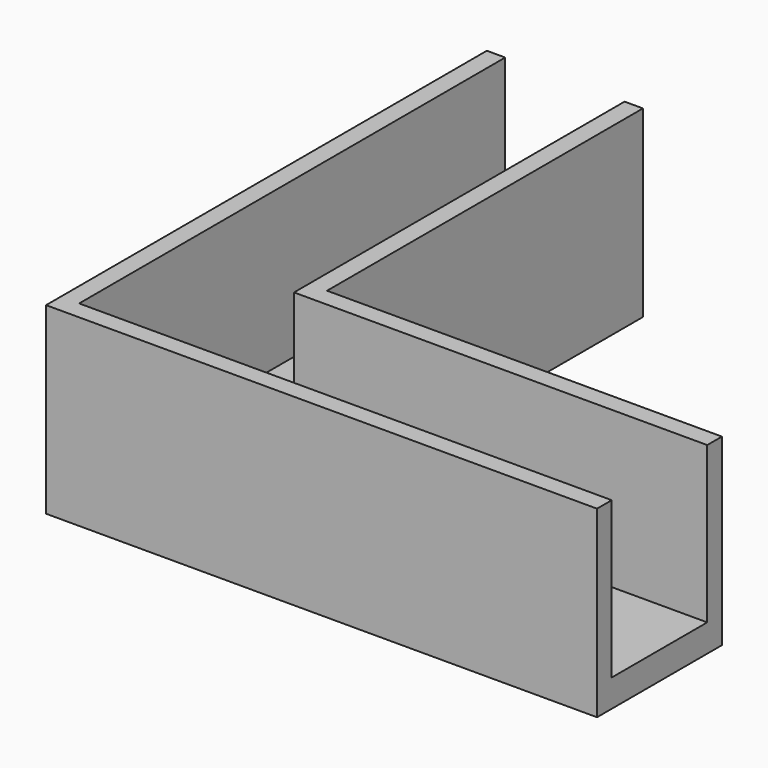
from build123d import *

# Parameters (mm, degrees)
PAD_DEPTH    = 20
POCKET_DEPTH = 17


with BuildPart() as part:
    # Sketch → Pad (new body)
    with BuildSketch(Plane.XY):
        Polygon((0, 60), (0, 0), (60, 0), (60, 17), (17, 17), (17, 60), align=None)
    extrude(amount=PAD_DEPTH)

    # Sketch001 → Pocket (cut)
    with BuildSketch(Plane.XY.offset(20)):
        Polygon((2, 2), (2, 60), (15, 60), (15, 15), (60, 15), (60, 2), align=None)
    extrude(amount=-POCKET_DEPTH, mode=Mode.SUBTRACT)


solid = part.part
